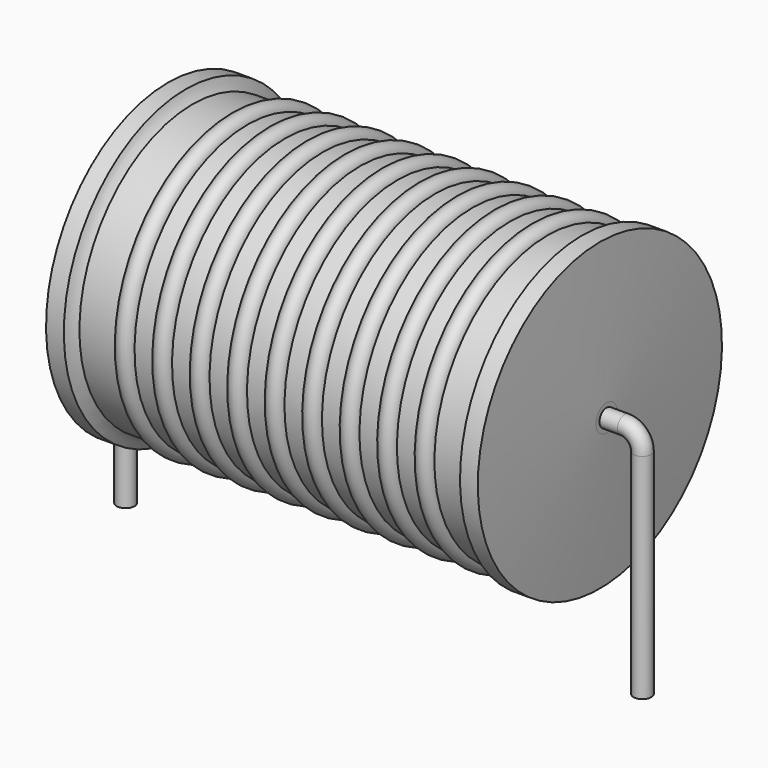
from build123d import *

# Parameters (mm, degrees)
SKETCH_R = 0.35


with BuildPart() as sweep_body:
    # Sweep: sweep along a path in Sketch001
    with BuildLine(Plane.XZ) as sweep_path:
        Line((0, -3), (0, 5.4))
        ThreePointArc((0, 5.4), (0.205028, 5.894977), (0.700007, 6.1))
        Line((0.700007, 6.1), (19.62, 6.1))
        ThreePointArc((19.62, 6.1), (20.114975, 5.894975), (20.32, 5.4))
        Line((20.32, 5.4), (20.32, -3))
    # Sketch → Sweep (sweep)
    with BuildSketch(Plane.XY.offset(-2)):
        Circle(SKETCH_R)
    sweep(path=sweep_path.line)


with BuildPart() as revolution001:
    # Sketch003 → Revolution001 (revolve)
    with BuildSketch(Plane.XZ):
        with BuildLine():
            ThreePointArc((4.808684, 11.5925), (4.440263, 11.960921), (4.071842, 11.5925))
            Line((3.335, 11.5925), (4.071842, 11.5925))
            Line((3.335, 11.5925), (3.335, 10.3925))
            Line((3.335, 10.3925), (17.335, 10.3925))
            Line((17.335, 10.3925), (17.335, 11.5925))
            Line((16.598158, 11.5925), (17.335, 11.5925))
            ThreePointArc((16.598158, 11.5925), (16.229737, 11.960921), (15.861316, 11.5925))
            Line((15.124474, 11.5925), (15.861316, 11.5925))
            ThreePointArc((15.124474, 11.5925), (14.756053, 11.960921), (14.387632, 11.5925))
            Line((13.650789, 11.5925), (14.387632, 11.5925))
            ThreePointArc((13.650789, 11.5925), (13.282368, 11.960921), (12.913947, 11.5925))
            Line((12.177105, 11.5925), (12.913947, 11.5925))
            ThreePointArc((12.177105, 11.5925), (11.808684, 11.960921), (11.440263, 11.5925))
            Line((10.703421, 11.5925), (11.440263, 11.5925))
            ThreePointArc((10.703421, 11.5925), (10.335, 11.960921), (9.966579, 11.5925))
            Line((9.229737, 11.5925), (9.966579, 11.5925))
            ThreePointArc((9.229737, 11.5925), (8.861316, 11.960921), (8.492895, 11.5925))
            Line((7.756053, 11.5925), (8.492895, 11.5925))
            ThreePointArc((7.756053, 11.5925), (7.387632, 11.960921), (7.019211, 11.5925))
            Line((6.282368, 11.5925), (7.019211, 11.5925))
            ThreePointArc((6.282368, 11.5925), (5.913947, 11.960921), (5.545526, 11.5925))
            Line((4.808684, 11.5925), (5.545526, 11.5925))
        make_face()
    revolve(axis=Axis((1.8475, 0, 6.1), (1, 0, 0)))


with BuildPart() as obj1:
    # Sketch002 → Revolution (revolve)
    with BuildSketch(Plane.XZ):
        with BuildLine():
            Line((1.6725, 12.1), (2.3725, 12.1))
            ThreePointArc((2.3725, 12.1), (2.480247, 11.867148), (2.635, 11.6625))
            Line((2.635, 11.6625), (17.685, 11.6625))
            ThreePointArc((17.685, 11.6625), (17.839753, 11.867148), (17.9475, 12.1))
            Line((17.9475, 12.1), (18.6475, 12.1))
            ThreePointArc((18.91, 6.625), (18.795114, 9.363285), (18.6475, 12.1))
            Line((18.91, 6.1), (18.91, 6.625))
            Line((1.41, 6.1), (18.91, 6.1))
            Line((1.41, 6.1), (1.41, 6.625))
            ThreePointArc((1.6725, 12.1), (1.524886, 9.363285), (1.41, 6.625))
        make_face()
    revolve(axis=Axis((1.41, 0, 6.1), (1, 0, 0)))

    # obj1: union Sweep body, Revolution001
    add(sweep_body.part)
    add(revolution001.part)


solid = obj1.part
